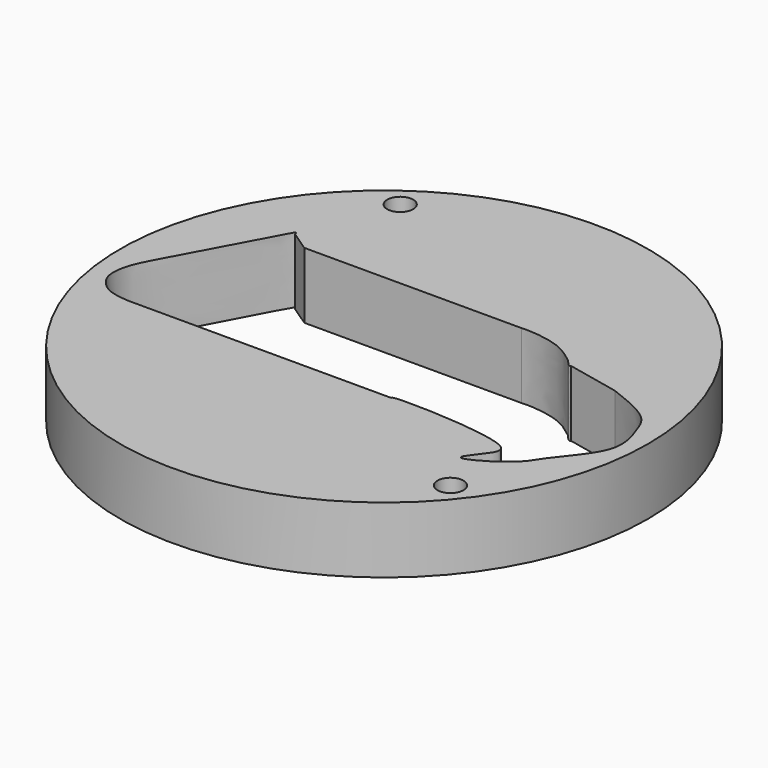
from build123d import *

# Parameters (mm, degrees)
F0_R     = 25.4
F0_R_2   = 1.25
F1_DEPTH = 6.35
F3_DEPTH = 6.351


with BuildPart() as f1:
    # F0 (on Top) → F1 (new body)
    with BuildSketch(Plane.XY):
        Circle(F0_R)
        with Locations((18.0169386982, -14.5365890065)):
            Circle(F0_R_2, mode=Mode.SUBTRACT)
        with Locations((-13.4965276548, 18.8086746281)):
            Circle(F0_R_2, mode=Mode.SUBTRACT)
    extrude(amount=-F1_DEPTH)

    # F2 (on face) → F3 (cut, through all)
    with BuildSketch(Plane.XY):
        with BuildLine():
            Line((6.1812424558, 8.7896540147), (-14.7059624651, 8.7896540147))
            add(Edge.make_bspline(
                [(-16.6374868247, 10.0919826146), (-15.9936453715, 9.6578730813), (-15.3498039183, 9.223763548), (-14.7059624651, 8.7896540147)],
                knots=[0, 0, 0, 0, 2.3295592145, 2.3295592145, 2.3295592145, 2.3295592145], degree=3))
            Line((-16.6374868247, 10.0919826146), (-16.7309469077, 10.3687760394))
            add(Edge.make_bspline(
                [(-19.8041772935, -6.1961339597), (-20.1325802623, -6.1642520599), (-20.8439199653, -6.0951940328), (-22.2060264689, -5.7077138997), (-23.3873844132, -4.3633834265), (-23.4734491112, -2.9861908334), (-23.0894719517, -1.0934715623), (-21.0841047959, 2.1621189486), (-16.8957151633, 10.4787515192), (-16.7405322476, 10.3751738273), (-16.7309469077, 10.3687760394)],
                knots=[0, 0, 0, 0, 0.0902590831, 0.195506361, 0.3110894937, 0.4129506957, 0.5273253248, 0.719970669, 0.9827031455, 1, 1, 1, 1], degree=3))
            Line((-19.8041772935, -6.1961339597), (5.643426953, -6.1961339597))
            add(Edge.make_bspline(
                [(18.0515912828, 5.2132311467), (18.5523297491, 5.0259357259), (19.7071419396, 4.593991608), (22.620919031, 3.2244596284), (23.4020260815, 0.9801179013), (24.5352945478, -2.4632496908), (20.7583828659, -6.3907769126), (19.9763890338, -8.3381164243), (16.5769919415, -10.5238429936), (15.3503897821, -10.5995808618), (16.9452075718, -8.7855133258), (18.4240671275, -6.2151918375), (5.7298346304, -5.7964980262), (5.6523819639, -6.1547169899), (5.643426953, -6.1961339597)],
                knots=[0, 0, 0, 0, 0.0688658245, 0.1588196213, 0.2372286853, 0.330856144, 0.4456031883, 0.5254765033, 0.6275242182, 0.6667478114, 0.739993126, 0.8041349103, 0.9773542461, 1, 1, 1, 1], degree=3))
            Line((18.0515912828, 5.2132311467), (12.9445752773, 6.3085641435))
            add(Edge.make_bspline(
                [(12.2508700472, 6.826676261), (12.508929228, 6.5046142565), (12.8342318849, 6.1055549293), (12.9449479201, 6.3455212784), (12.9462026288, 6.3229491884), (12.9445752773, 6.3085641435)],
                knots=[0, 0, 0, 0, 0.6628332943, 0.9008679905, 1, 1, 1, 1], degree=3))
            add(Edge.make_bspline(
                [(6.1812424558, 8.7896540147), (6.5038107636, 8.8053836126), (7.340140665, 8.8461660845), (10.2305223514, 8.4071754808), (11.5872888932, 7.3457896284), (12.2508700472, 6.826676261)],
                knots=[0, 0, 0, 0, 0.2428703881, 0.6296953631, 1, 1, 1, 1], degree=3))
        make_face()
    extrude(amount=-F3_DEPTH, mode=Mode.SUBTRACT)


solid = f1.part
